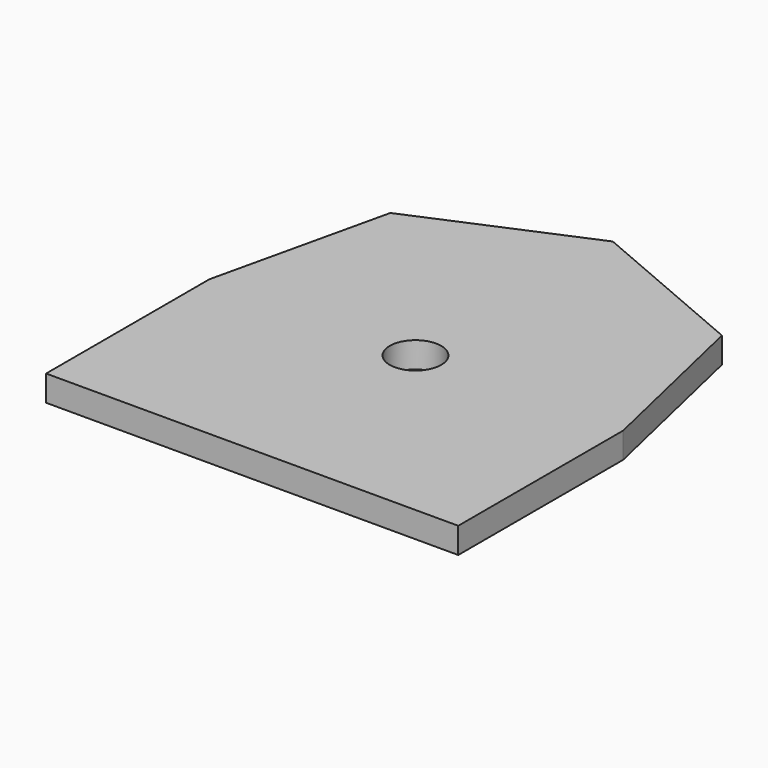
from build123d import *

# Parameters (mm, degrees)
F0_R     = 10
F1_DEPTH = 10


with BuildPart() as f1:
    # F0 (on Top) → F1 (new body)
    with BuildSketch(Plane.XY):
        Polygon((-80, 0), (-80, -79.253925), (80, -79.253925), (80, 0.746075), (64.365849, 68.231762), (0, 95.746075), (-64.365849, 68.231762), align=None)
        Circle(F0_R, mode=Mode.SUBTRACT)
    extrude(amount=F1_DEPTH)


solid = f1.part
